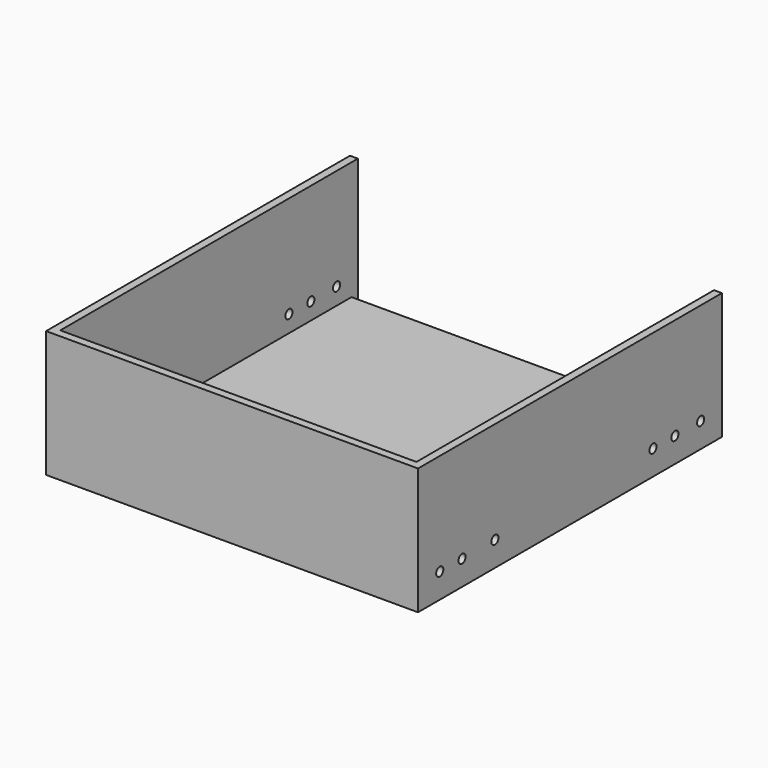
from build123d import *

# Parameters (mm, degrees)
F0_W     = 149.225
F0_H     = 3.175
F1_DEPTH = 50.8
F0_H_2   = 146.05
F2_DEPTH = 3.175
F3_W     = 3.175
F3_H     = 152.4
F4_DEPTH = 50.8
F5_W     = 3.175
F5_H     = 152.4
F6_DEPTH = 50.8
F7_R     = 1.7859375
F8_DEPTH = 254


with BuildPart() as f1:
    # F0 (on Top) → F1 (new body)
    with BuildSketch(Plane.XY):
        with Locations((74.6125, 1.5875)):
            Rectangle(F0_W, F0_H)
    extrude(amount=F1_DEPTH)

    # F0 (on Top) → F2 (join)
    with BuildSketch(Plane.XY):
        with Locations((74.6125, 76.2)):
            Rectangle(F0_W, F0_H_2)
    extrude(amount=F2_DEPTH)

    # F3 (on Top) → F4 (join)
    with BuildSketch(Plane.XY):
        with Locations((1.5875, 76.2)):
            Rectangle(F3_W, F3_H)
    extrude(amount=F4_DEPTH)

    # F5 (on Top) → F6 (join)
    with BuildSketch(Plane.XY):
        with Locations((147.6375, 76.2)):
            Rectangle(F5_W, F5_H)
    extrude(amount=F6_DEPTH)

    # F7 (on Right) → F8 (cut)
    with BuildSketch(Plane.YZ):
        with Locations((10.8928065747, 9.9538508803)):
            Circle(F7_R)
        with Locations((22.0790393651, 9.9538508803)):
            Circle(F7_R)
        with Locations((38.5739915073, 9.9538508803)):
            Circle(F7_R)
        with Locations((141.7148411274, 9.9538508803)):
            Circle(F7_R)
        with Locations((128.8222372532, 9.9538508803)):
            Circle(F7_R)
        with Locations((117.8256049752, 9.9538508803)):
            Circle(F7_R)
    extrude(amount=F8_DEPTH, mode=Mode.SUBTRACT)


solid = f1.part
